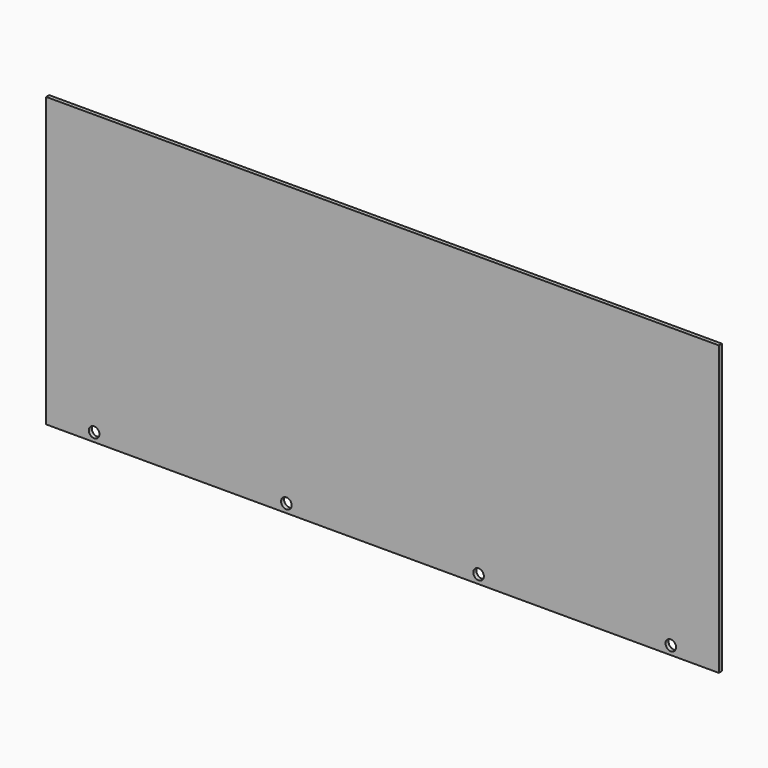
from build123d import *

# Parameters (mm, degrees)
F0_W     = 350
F0_H     = 150
F1_DEPTH = 2
F3_D     = 5.5
F3_DEPTH = 13
F3_TIP   = 1.6523667023


with BuildPart() as f1:
    # F0 (on Front) → F1 (new body)
    with BuildSketch(Plane.XZ):
        Rectangle(F0_W, F0_H)
    extrude(amount=F1_DEPTH)

    # F3
    with Locations(Plane.XZ.offset(2)):
        with Locations((-150, -70.5), (-50, -70.5), (50, -70.5), (150, -70.5)):
            Hole(F3_D / 2, depth=F3_DEPTH)
            with Locations((0, 0, -(F3_DEPTH + F3_TIP / 2))):  # 118° drill point
                Cone(0, F3_D / 2, F3_TIP, mode=Mode.SUBTRACT)


solid = f1.part
